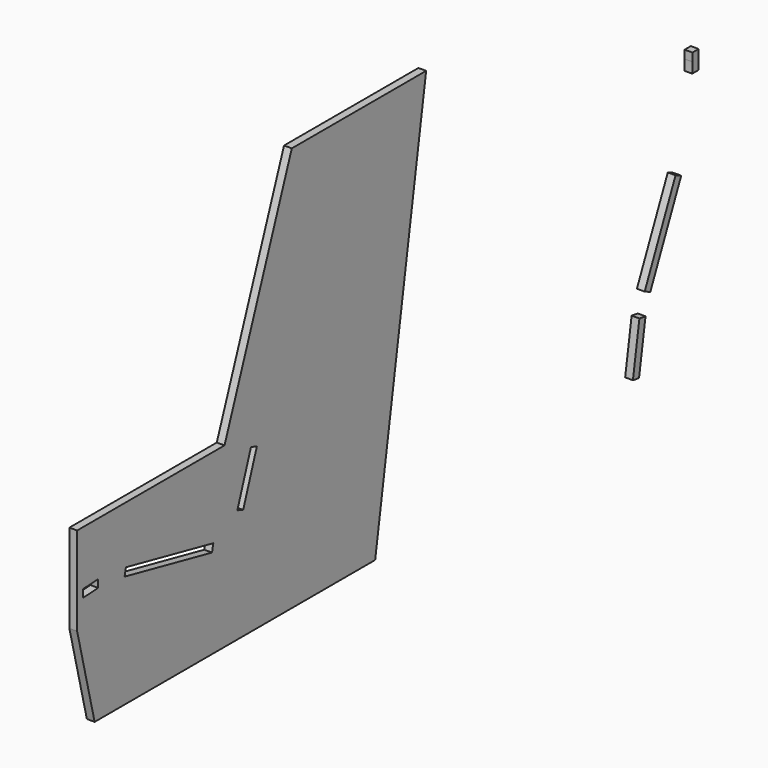
from build123d import *

# Parameters (mm, degrees)
F1_DEPTH = 18


with BuildPart() as f1:
    # F0 (on Right) → F1 (new body)
    with BuildSketch(Plane.YZ):
        Polygon((50.683603, 92.471512), (863.867171, 92.471512), (1011.610755, 1030.991083), (622.156561, 1030.991083), (427.203393, 503.895482), (0, 503.895482), (0, 298.183497), align=None)
        Polygon((16.277162, 377.430974), (60.216862, 379.733756), (61.158909, 361.758424), (17.219209, 359.455642), align=None, mode=Mode.SUBTRACT)
        Polygon((141.307602, 371.320639), (394.64783, 317.471512), (390.90542, 299.864855), (137.565191, 353.713983), align=None, mode=Mode.SUBTRACT)
        Polygon((464.320761, 356.261409), (503.883639, 469.552091), (520.877241, 463.61766), (481.314364, 350.326977), align=None, mode=Mode.SUBTRACT)
        Polygon((1647.464311, 271.374894), (1629.685921, 274.190714), (1610.913785, 155.668113), (1628.692175, 152.852293), align=None)
        with BuildLine():
            Line((1783.352919, 754.608472), (1783.352919, 735.608472))
            ThreePointArc((1783.352919, 735.608472), (1783.203587, 723.636166), (1782.755685, 711.67131))
            Line((1782.755685, 711.67131), (1800.777297, 711.67131))
            ThreePointArc((1800.777297, 711.67131), (1801.208992, 723.636431), (1801.352919, 735.608472))
            Line((1801.352919, 735.608472), (1801.352919, 754.608472))
            Line((1801.352919, 754.608472), (1783.352919, 754.608472))
        make_face()
        Polygon((1734.474366, 523.798296), (1644.992305, 322.818295), (1661.436123, 315.497035), (1750.918184, 516.477036), align=None)
    extrude(amount=F1_DEPTH)


solid = f1.part
